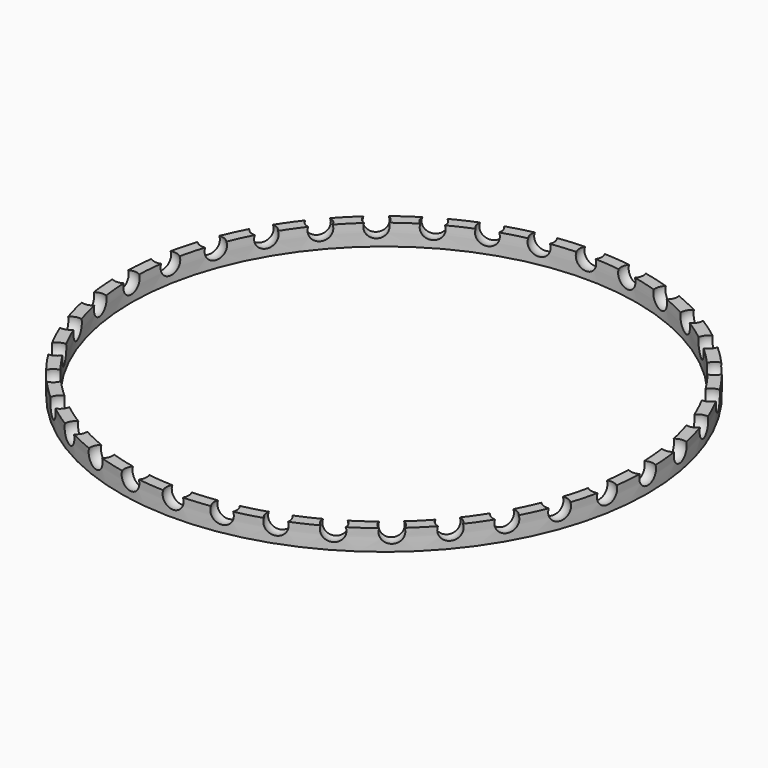
from build123d import *

# Parameters (mm, degrees)
POLARPATTERN_COUNT = 36
SKETCH004_W        = 1.6
SKETCH004_H        = 3


with BuildPart() as body001:
    # Sketch002 → Revolution001 (revolve)
    with BuildSketch(Plane(origin=(37, 0, 0), x_dir=(1, 0, 0), z_dir=(0, -1, 0))):
        with BuildLine():
            ThreePointArc((0, 0.8125), (1.6875, 2.5), (0, 4.1875))
            Line((0, 4.1875), (0, 0.8125))
        make_face()
    revolve(axis=Axis((37, 0, 0), (0, 0, 1)))

    # PolarPattern: Body001 ×36 about axis
    polarpattern_axis = Axis((0, 0, 0), (0, 0, 1))


with BuildPart() as body001_1:
    add(body001.part)
    for i in range(1, POLARPATTERN_COUNT):
        add(body001.part.rotate(polarpattern_axis, i * 360 / POLARPATTERN_COUNT))


with BuildPart() as body003:
    # Sketch004 → Revolution003 (revolve)
    with BuildSketch(Plane.XZ):
        with Locations((37, 1.5)):
            Rectangle(SKETCH004_W, SKETCH004_H)
    revolve(axis=Axis((0, 0, 0), (0, 0, 1)))

    # Boolean: cut Body001
    add(body001_1.part, mode=Mode.SUBTRACT)


solid = body003.part
